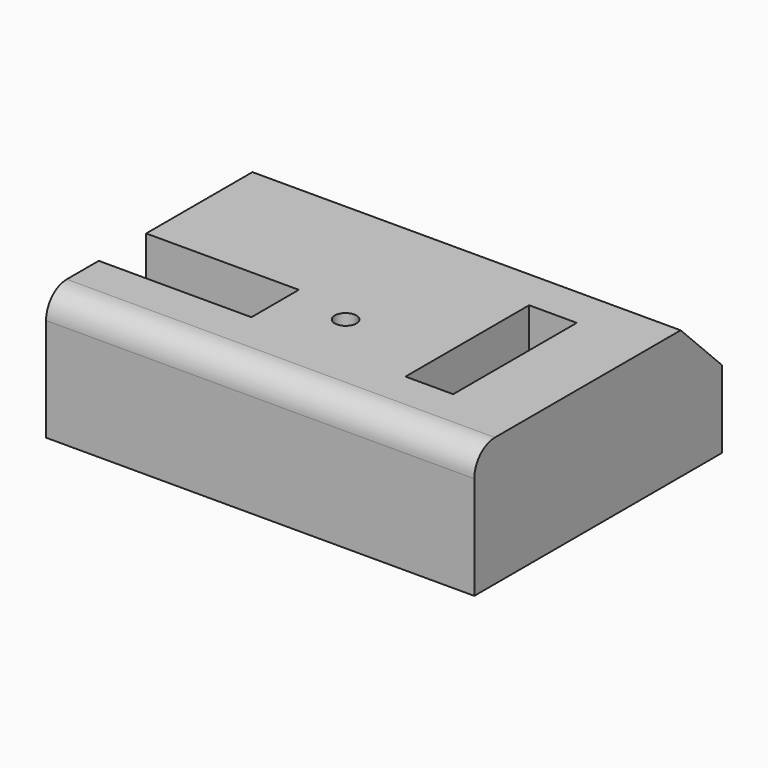
from build123d import *

# Parameters (mm, degrees)
F0_W     = 83
F0_H     = 60
F1_DEPTH = 25
F2_R     = 5
F3_SIZE  = 10
F5_D     = 4.2
F6_W     = 9.244158864
F6_H     = 29.9456948414
F7_DEPTH = 30
F8_W     = 29.5899156481
F8_H     = 11.4948265254
F9_DEPTH = 15


with BuildPart() as f1:
    # F0 (on Top) → F1 (new body)
    with BuildSketch(Plane.XY):
        with Locations((41.5, 30)):
            Rectangle(F0_W, F0_H)
    extrude(amount=F1_DEPTH)

    # F2
    f2_edges = [f1.edges().sort_by_distance(p)[0] for p in [
        (41.5, 0, 25),
    ]]
    fillet(f2_edges, radius=F2_R)

    # F3
    f3_edges = [f1.edges().sort_by_distance(p)[0] for p in [
        (41.5, 60, 25),
    ]]
    chamfer(f3_edges, length=F3_SIZE)

    # F5 (through all)
    with Locations(Plane.XY.offset(25)):
        with Locations((41.1825105548, 21.0945475847)):
            Hole(F5_D / 2)

    # F6 (on face) → F7 (cut)
    with BuildSketch(Plane.XY.offset(25)):
        with Locations((64.5809471607, 27.1079088561)):
            Rectangle(F6_W, F6_H)
    extrude(amount=-F7_DEPTH, mode=Mode.SUBTRACT)

    # F8 (on face) → F9 (cut)
    with BuildSketch(Plane.XY.offset(25)):
        with Locations((14.7949578241, 18.5050182045)):
            Rectangle(F8_W, F8_H)
    extrude(amount=-F9_DEPTH, mode=Mode.SUBTRACT)


solid = f1.part
